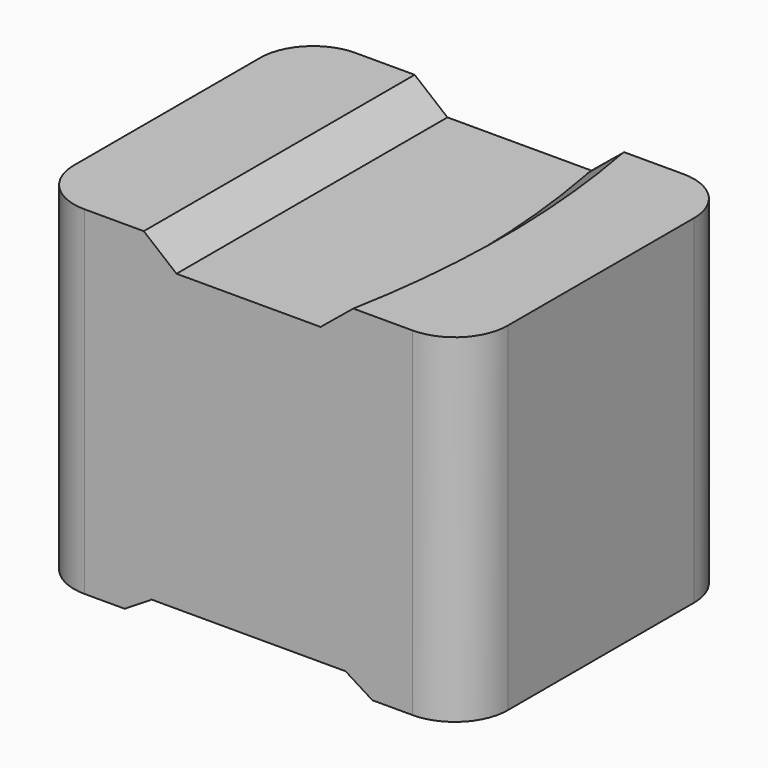
from build123d import *

# Parameters (mm, degrees)
F0_W     = 260.35
F0_H     = 203.2
F1_DEPTH = 203.2
F2_R     = 31.75
F4_DEPTH = 203.201


with BuildPart() as f1:
    # F0 (on Top) → F1 (new body)
    with BuildSketch(Plane.XY):
        with Locations((-43.21573, 7.619998)):
            Rectangle(F0_W, F0_H)
    extrude(amount=F1_DEPTH)

    # F2
    f2_edges = [f1.edges().sort_by_distance(p)[0] for p in [
        (-173.39073, 109.219998, 101.6),
        (-173.39073, -93.980002, 101.6),
        (86.95927, 109.219998, 101.6),
        (86.95927, -93.980002, 101.6),
    ]]
    fillet(f2_edges, radius=F2_R)

    # F3 (on face) → F4 (cut, through all)
    with BuildSketch(Plane.XZ.offset(93.980002)):
        Polygon((19.64927, 203.2), (-106.08073, 203.2), (-86.431459, 187.104467), (0, 187.104467), align=None)
        Polygon((-101.357388, 10.098124), (-117.510729, 0), (31.106714, 0), (14.953374, 10.098124), align=None)
    extrude(amount=-F4_DEPTH, mode=Mode.SUBTRACT)

    # F7: sweep along a path in F5
    with BuildLine(Plane.XY.offset(203.2)) as f7_path:
        ThreePointArc((20.038901, -93.980002), (29.431866, 7.632308), (19.77627, 109.219998))
        Line((19.77627, 109.219998), (14.249222, 138.23534))
    # F6 (on face) → F7 (sweep, cut)
    with BuildSketch(Plane.XZ.offset(93.980002)):
        Polygon((0, 187.104467), (19.64927, 203.2), (0, 203.2), (-25.094712, 203.330889), (-25.094712, 187.104467), align=None)
    sweep(path=f7_path.line, mode=Mode.SUBTRACT)


solid = f1.part
